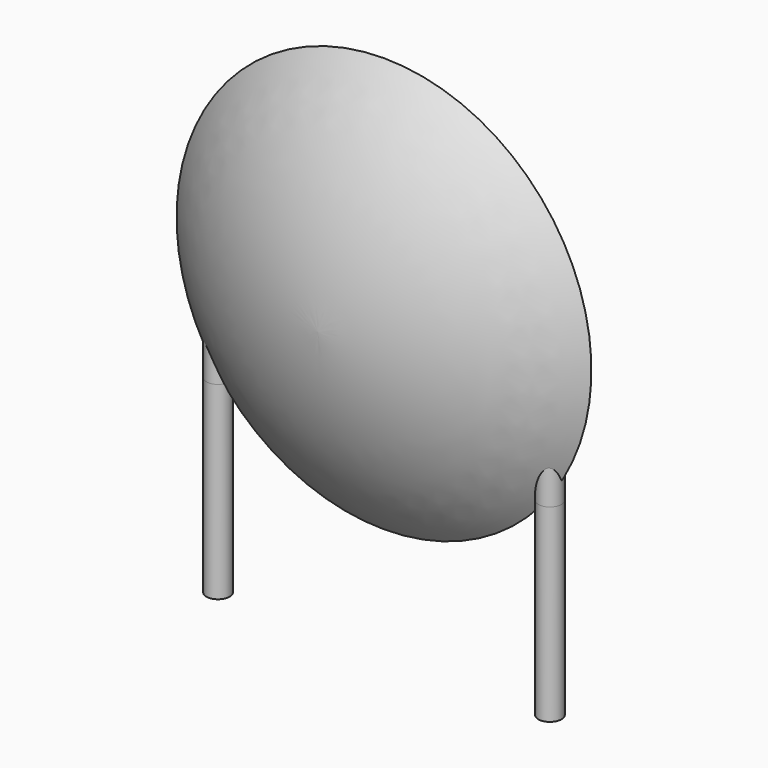
from build123d import *

# Parameters (mm, degrees)
SKETCH001_R       = 0.35
PAD001_DEPTH      = 2.5
PAD001_DEPTH_BACK = 3.2
SKETCH002_R       = 0.35
SKETCH003_R       = 0.35
SKETCH004_R       = 0.35
SKETCH005_R       = 0.35


with BuildPart() as pad001:
    # Sketch001 → Pad001 (new body, two sides)
    with BuildSketch(Plane.XY) as pad001_sk:
        Circle(SKETCH001_R)
        with Locations((10, 0)):
            Circle(SKETCH001_R)
    extrude(amount=PAD001_DEPTH)
    extrude(pad001_sk.sketch, amount=-PAD001_DEPTH_BACK)


with BuildPart() as revolution:
    # Sketch → Revolution (revolve)
    with BuildSketch(Plane.YZ.offset(5)):
        with BuildLine():
            Line((-2.5, 6.35), (2.5, 6.35))
            ThreePointArc((0, 0.1), (1.810113, 3.000955), (2.5, 6.35))
            ThreePointArc((-2.5, 6.35), (-1.810113, 3.000955), (0, 0.1))
        make_face()
    revolve(axis=Axis((5, -3.32079, 6.35), (0, 1, 0)))


with BuildPart() as loft_body:
    # Sketch002 → Loft section 0
    with BuildSketch(Plane.XY.offset(6.25)):
        Circle(SKETCH002_R)
    # Sketch003 → Loft section 1
    with BuildSketch(Plane.XY.offset(2.5)):
        Circle(SKETCH003_R)
    loft()


with BuildPart() as loft001:
    # Sketch004 → Loft001 section 0
    with BuildSketch(Plane.XY.offset(2.5)):
        with Locations((10, 0)):
            Circle(SKETCH004_R)
    # Sketch005 → Loft001 section 1
    with BuildSketch(Plane.XY.offset(6.25)):
        with Locations((10, 0)):
            Circle(SKETCH005_R)
    loft()


solid = Compound([pad001.part, revolution.part, loft_body.part, loft001.part])
